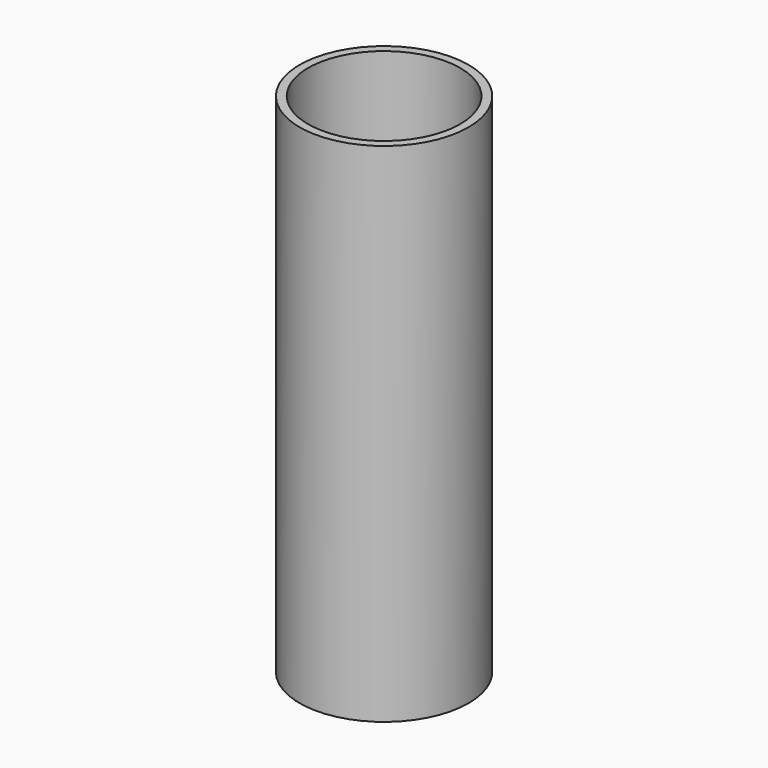
from build123d import *

# Parameters (mm, degrees)
F0_R     = 38.1
F1_DEPTH = 228.6
F2_T     = -3.81


with BuildPart() as f1:
    # F0 (on Top) → F1 (new body)
    with BuildSketch(Plane.XY):
        Circle(F0_R)
    extrude(amount=-F1_DEPTH)

    # F2
    f2_openings = [f1.faces().sort_by_distance(p)[0] for p in [
        (0, 0, 0),
    ]]
    offset(amount=F2_T, openings=f2_openings)


solid = f1.part
